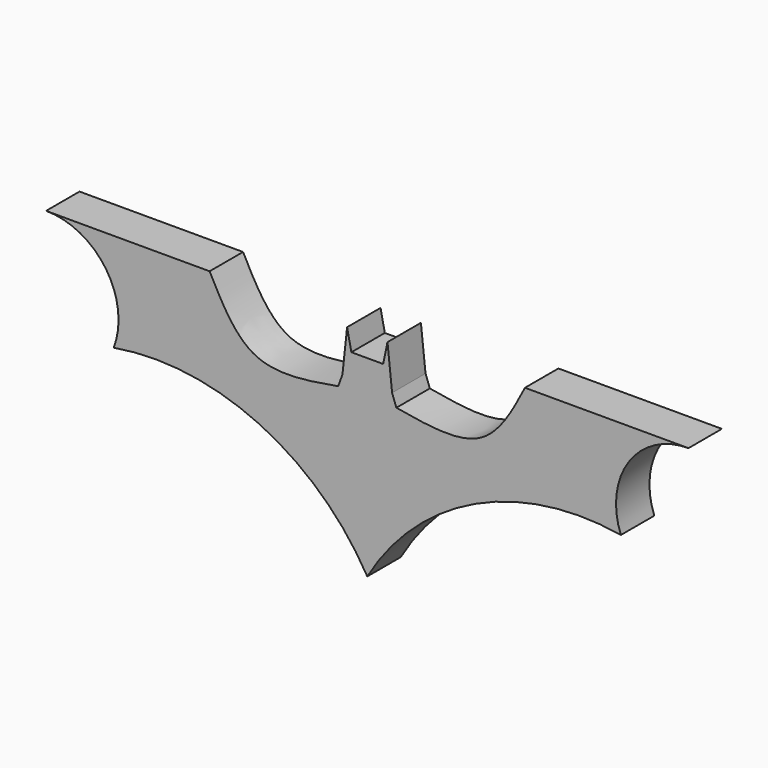
from build123d import *

# Parameters (mm, degrees)
F1_DEPTH = 12.7


with BuildPart() as f1:
    # F0 (on Front) → F1 (new body)
    with BuildSketch(Plane.XZ):
        with BuildLine():
            Line((4.8336908221, 41.308041662), (0, 41.308041662))
            Line((0, 41.308041662), (-4.8336908221, 41.308041662))
            Line((-4.8336908221, 41.308041662), (-6.1330259778, 47.5881583989))
            Line((-6.1330259778, 47.5881583989), (-7.5406380929, 34.4865359366))
            Line((-7.5406380929, 34.4865359366), (-8.8399723172, 30.9133678675))
            add(Edge.make_bspline(
                [(-8.8399723172, 30.9133678675), (-18.0591392969, 29.3050970462), (-36.0928101375, 26.1591483202), (-44.0276732608, 41.4746301976), (-47.9060783982, 48.9605367184)],
                knots=[0, 0, 0, 0, 0.5112196547, 1, 1, 1, 1], degree=3))
            Line((-47.9060783982, 48.9605367184), (-97.5939705968, 48.9605367184))
            ThreePointArc((-97.5939705968, 48.9605367184), (-79.4461057207, 39.4099286983), (-77.0424380898, 19.0437436104))
            ThreePointArc((-77.0424380898, 19.0437436104), (-32.866234626, 13.0313198908), (0, -17.0933678746))
            ThreePointArc((0, -17.0933678746), (32.866234626, 13.0313198908), (77.0424380898, 19.0437436104))
            ThreePointArc((77.0424380898, 19.0437436104), (79.4461057207, 39.4099286983), (97.5939705968, 48.9605367184))
            Line((97.5939705968, 48.9605367184), (47.9060783982, 48.9605367184))
            add(Edge.make_bspline(
                [(8.8399723172, 30.9133678675), (18.0591392969, 29.3050970462), (36.0928101375, 26.1591483202), (44.0276732608, 41.4746301976), (47.9060783982, 48.9605367184)],
                knots=[0, 0, 0, 0, 0.5112196547, 1, 1, 1, 1], degree=3))
            Line((8.8399723172, 30.9133678675), (7.5406380929, 34.4865359366))
            Line((7.5406380929, 34.4865359366), (6.1330259778, 47.5881583989))
            Line((6.1330259778, 47.5881583989), (4.8336908221, 41.308041662))
        make_face()
    extrude(amount=F1_DEPTH)


solid = f1.part
